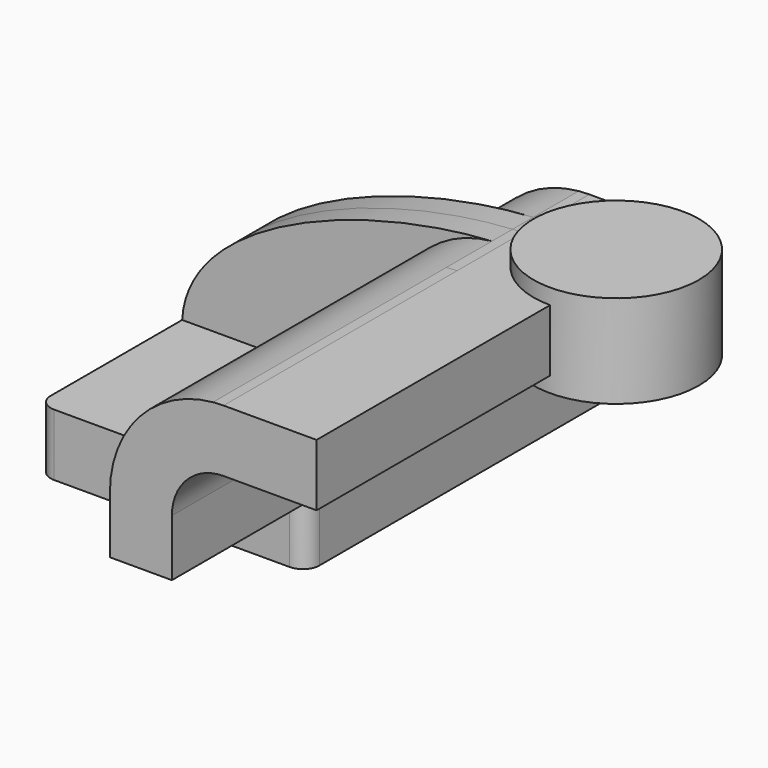
from build123d import *

# Parameters (mm, degrees)
F1_DEPTH = 63.5
F0_W     = 25.4
F0_H     = 19.05
F2_DEPTH = 25.4
F3_DEPTH = 7.9375
F5_R     = 5.08
F6_DEPTH = 89.662


with BuildPart() as f1:
    # F0 (on Front) → F1 (new body, symmetric)
    with BuildSketch(Plane.XZ):
        Polygon((22.225, 9.525), (-41.275, 9.525), (-41.275, -9.525), (41.275, -9.525), (41.275, 9.525), align=None)
    extrude(amount=F1_DEPTH, both=True)

    # F0 (on Front) → F2 (join, symmetric)
    with BuildSketch(Plane.XZ):
        with BuildLine():
            Line((22.225, 27.0002), (22.225, 9.525))
            Line((22.225, 9.525), (41.275, 9.525))
            Line((41.275, 9.525), (41.275, 27.0002))
            ThreePointArc((41.275, 27.0002), (45.9246798487, 38.2255201513), (57.15, 42.8752))
            Line((57.15, 42.8752), (60.325, 42.8752))
            Line((60.325, 42.8752), (60.325, 61.9252))
            Line((60.325, 61.9252), (57.15, 61.9252))
            add(Edge.make_bspline(
                [(53.8854342407, 61.7722898912), (54.9842067368, 61.8365871986), (56.0728453275, 61.8876096574), (57.15, 61.9252)],
                knots=[108.5245810491, 108.5245810491, 108.5245810491, 108.5245810491, 111.5045361635, 111.5045361635, 111.5045361635, 111.5045361635], degree=3))
            ThreePointArc((53.8854342407, 61.7722898912), (31.3258777096, 50.5133948686), (22.225, 27.0002))
        make_face()
        with Locations((73.025, 52.4002)):
            Rectangle(F0_W, F0_H)
    extrude(amount=F2_DEPTH, both=True)

    # F0 (on Front) → F3 (join, symmetric)
    with BuildSketch(Plane.XZ):
        with BuildLine():
            add(Edge.make_bspline(
                [(-41.275, 9.525), (-39.5856284224, 39.4828766469), (13.870125209, 59.4306981306), (53.8854342407, 61.7722898912)],
                knots=[0, 0, 0, 0, 108.5245810491, 108.5245810491, 108.5245810491, 108.5245810491], degree=3))
            Line((-41.275, 9.525), (22.225, 9.525))
            Line((22.225, 9.525), (22.225, 27.0002))
            ThreePointArc((22.225, 27.0002), (31.3258777096, 50.5133948686), (53.8854342407, 61.7722898912))
        make_face()
    extrude(amount=F3_DEPTH, both=True)

    # F0 (on Front) → F4 (revolve)
    with BuildSketch(Plane.XZ):
        Polygon((85.725, 66.675), (85.725, 61.9252), (85.725, 42.8752), (85.725, 38.1), (111.125, 38.1), (111.125, 66.675), align=None)
    revolve(axis=Axis((85.725, 0, 52.3875), (0, 0, 1)))

    # F5
    f5_edges = [f1.edges().sort_by_distance(p)[0] for p in [
        (41.275, -63.5, 0),
        (-41.275, -63.5, 0),
        (41.275, 63.5, 0),
        (-41.275, 63.5, 0),
    ]]
    fillet(f5_edges, radius=F5_R)

    # F6 (add): a face of the model
    f6_faces = [f1.faces().sort_by_distance(p)[0] for p in [
        (48.8772671015, -25.4, 41.5257592525),
    ]]
    extrude(f6_faces, amount=F6_DEPTH)


solid = f1.part
